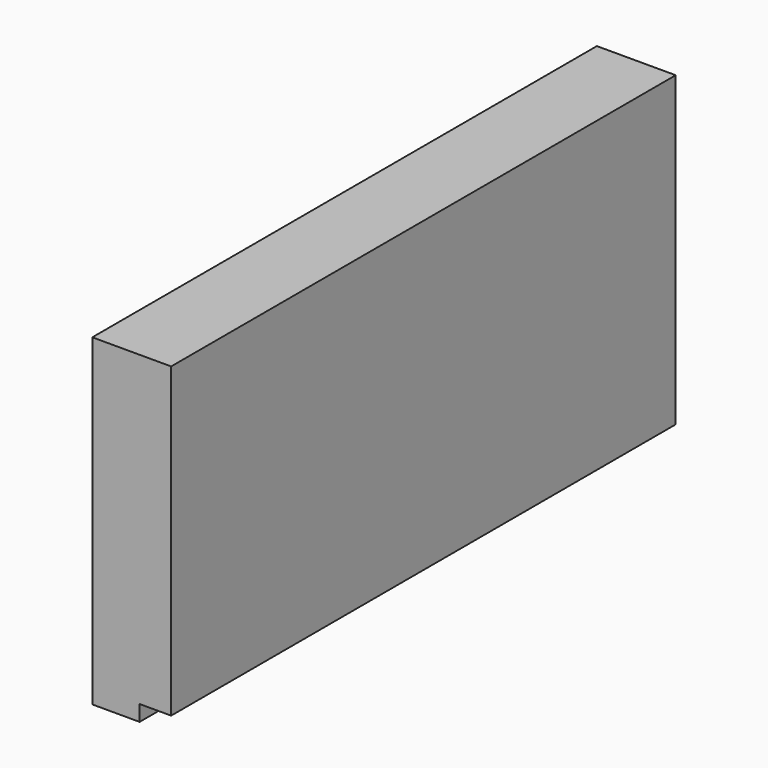
from build123d import *

# Parameters (mm, degrees)
F0_W     = 160
F0_H     = 78
F1_DEPTH = 20
F0_H_2   = 4
F2_DEPTH = 12


with BuildPart() as f1:
    # F0 (on Right) → F1 (new body)
    with BuildSketch(Plane.YZ):
        with Locations((-0.696084, 38.406456)):
            Rectangle(F0_W, F0_H)
    extrude(amount=F1_DEPTH)

    # F0 (on Right) → F2 (join)
    with BuildSketch(Plane.YZ):
        with Locations((-0.696084, 38.406456)):
            Rectangle(F0_W, F0_H)
        with Locations((-0.696084, -2.593544)):
            Rectangle(F0_W, F0_H_2)
    extrude(amount=F2_DEPTH)


solid = f1.part
